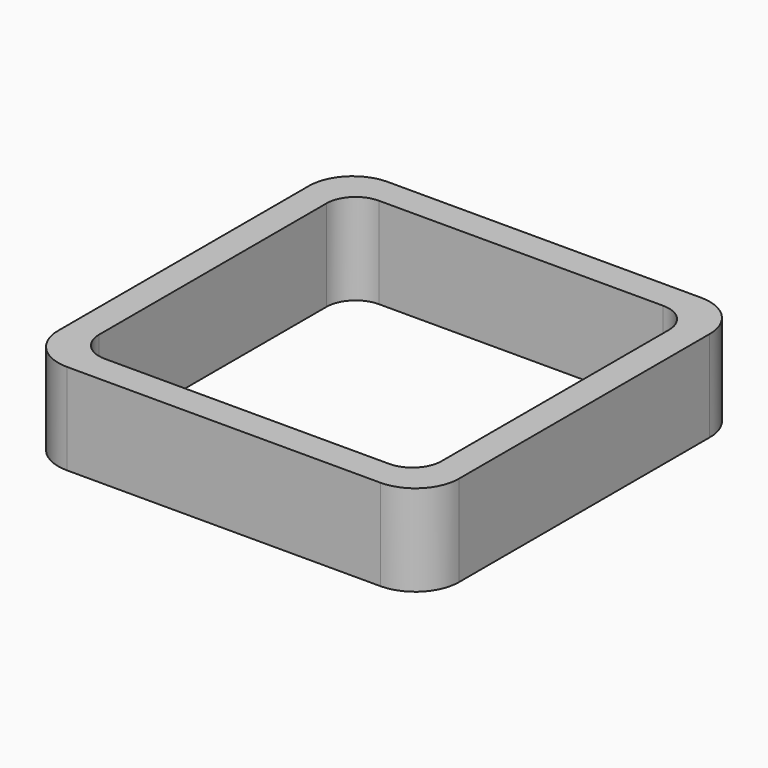
from build123d import *

# Parameters (mm, degrees)
EXTRUDE_DEPTH = 50


with BuildPart() as part:
    # Sketch → Extrude (new body)
    with BuildSketch(Plane.XY):
        with BuildLine():
            Line((-86, 110), (86, 110))
            ThreePointArc((110, 86), (102.970563, 102.970563), (86, 110))
            Line((110, 86), (110, -86))
            ThreePointArc((86, -110), (102.970563, -102.970563), (110, -86))
            Line((86, -110), (-86, -110))
            ThreePointArc((-110, -86), (-102.970563, -102.970563), (-86, -110))
            Line((-110, -86), (-110, 86))
            ThreePointArc((-86, 110), (-102.970563, 102.970563), (-110, 86))
        make_face()
        with BuildLine():
            Line((-78, 94), (78, 94))
            ThreePointArc((94, 78), (89.313708, 89.313708), (78, 94))
            Line((94, 78), (94, -78))
            ThreePointArc((78, -94), (89.313708, -89.313708), (94, -78))
            Line((78, -94), (-78, -94))
            ThreePointArc((-94, -78), (-89.313708, -89.313708), (-78, -94))
            Line((-94, -78), (-94, 78))
            ThreePointArc((-78, 94), (-89.313708, 89.313708), (-94, 78))
        make_face(mode=Mode.SUBTRACT)
    extrude(amount=EXTRUDE_DEPTH)


solid = part.part
